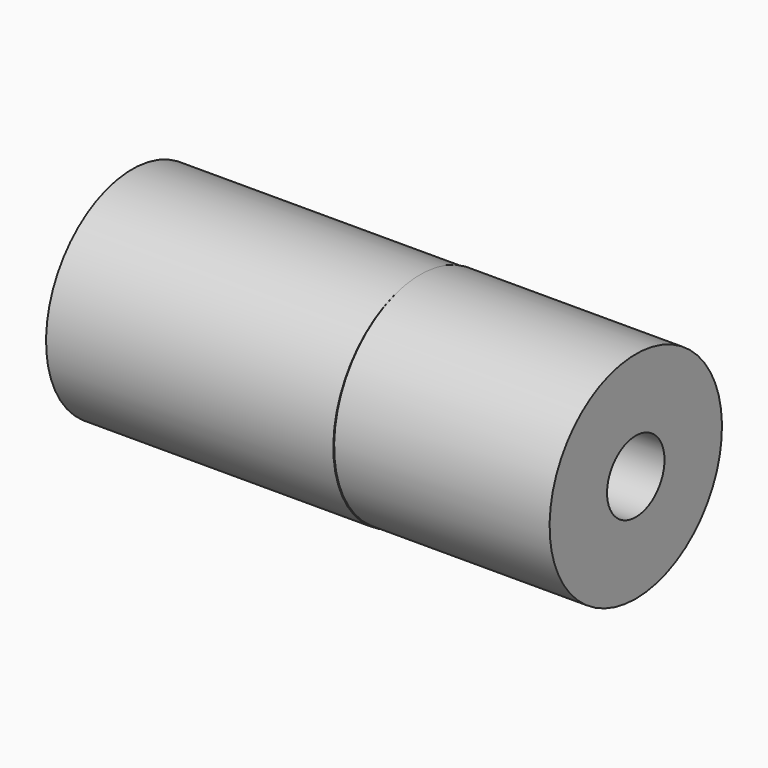
from build123d import *

# Parameters (mm, degrees)
CYLINDER021_R     = 3
CYLINDER021_DEPTH = 8
TUBE_R            = 3
TUBE_R_2          = 1
TUBE_DEPTH        = 6


with BuildPart() as cylinder:
    # Cylinder021 → Cylinder021 (new body)
    with BuildSketch(Plane(origin=(20.93, 150.413, -5.317), x_dir=(0, 0, -1), z_dir=(1, 0, 0))):
        Circle(CYLINDER021_R)
    extrude(amount=CYLINDER021_DEPTH)


with BuildPart() as fusion:
    # Tube → Tube (new body)
    with BuildSketch(Plane(origin=(28.933, 150.437, -5.307), x_dir=(0, 0, -1), z_dir=(1, 0, 0))):
        Circle(TUBE_R)
        Circle(TUBE_R_2, mode=Mode.SUBTRACT)
    extrude(amount=TUBE_DEPTH)

    # Fusion: union Cylinder
    add(cylinder.part)


with BuildPart() as fusion_1:
    # Fusion placement: moved
    add(fusion.part.moved(Location((-23.546, 0, 0.055))))


solid = fusion_1.part
